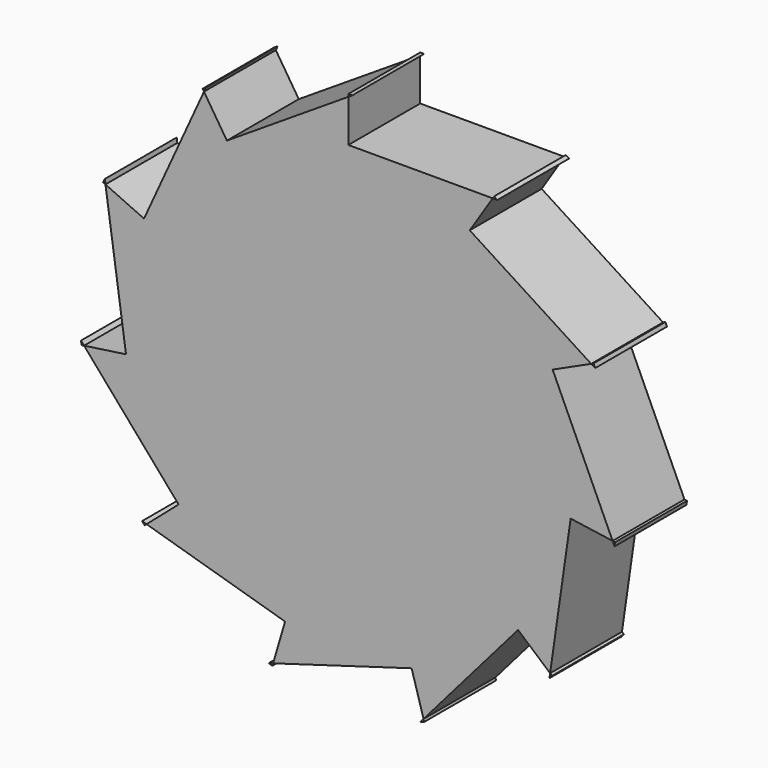
from build123d import *

# Parameters (mm, degrees)
F1_DEPTH = 10


with BuildPart() as f1:
    # F0 (on Front) → F1 (new body)
    with BuildSketch(Plane.XZ):
        with BuildLine():
            Line((16.066524, 25), (16.583124, 25))
            ThreePointArc((16.583124, 25), (16.401605, 25.119462), (16.219225, 25.237606))
            Line((16.219225, 25.237606), (16.066524, 25))
        make_face()
        with BuildLine():
            Line((27.28896, 12.46245), (27.032041, 12.345119))
            Line((27.032041, 12.345119), (27.466632, 12.065825))
            ThreePointArc((27.466632, 12.065825), (27.378514, 12.264459), (27.28896, 12.46245))
        make_face()
        with BuildLine():
            Line((29.694643, -4.269445), (29.415075, -4.229249))
            Line((29.415075, -4.229249), (29.629679, -4.699165))
            ThreePointArc((29.629679, -4.699165), (29.662939, -4.484423), (29.694643, -4.269445))
        make_face()
        with BuildLine():
            Line((22.672487, -19.645822), (22.459031, -19.460861))
            Line((22.459031, -19.460861), (22.385511, -19.972203))
            ThreePointArc((22.385511, -19.972203), (22.52959, -19.809532), (22.672487, -19.645822))
        make_face()
        with BuildLine():
            Line((8.451977, -28.784789), (8.372403, -28.513787))
            Line((8.372403, -28.513787), (8.034103, -28.904207))
            ThreePointArc((8.034103, -28.904207), (8.243256, -28.845255), (8.451977, -28.784789))
        make_face()
        with BuildLine():
            Line((-8.451977, -28.784789), (-8.372403, -28.513787))
            Line((-8.372403, -28.513787), (-8.868077, -28.65933))
            ThreePointArc((-8.868077, -28.65933), (-8.660254, -28.722813), (-8.451977, -28.784789))
        make_face()
        with BuildLine():
            Line((-22.672487, -19.645822), (-22.459031, -19.460861))
            Line((-22.459031, -19.460861), (-22.954705, -19.315318))
            ThreePointArc((-22.954705, -19.315318), (-22.814195, -19.481081), (-22.672487, -19.645822))
        make_face()
        with BuildLine():
            Line((-29.694643, -4.269445), (-29.415075, -4.229249))
            Line((-29.415075, -4.229249), (-29.753376, -3.838829))
            ThreePointArc((-29.753376, -3.838829), (-29.724789, -4.054244), (-29.694643, -4.269445))
        make_face()
        with BuildLine():
            Line((-27.28896, 12.46245), (-27.032041, 12.345119))
            Line((-27.032041, 12.345119), (-27.105561, 12.856461))
            ThreePointArc((-27.105561, 12.856461), (-27.197974, 12.659788), (-27.28896, 12.46245))
        make_face()
        with BuildLine():
            Line((-16.219225, 25.237606), (-16.066524, 25))
            Line((-16.066524, 25), (-15.851921, 25.469915))
            ThreePointArc((-15.851921, 25.469915), (-16.035994, 25.354426), (-16.219225, 25.237606))
        make_face()
        with BuildLine():
            Line((0, 30), (0, 29.717557))
            Line((0, 29.717557), (0.434591, 29.996852))
            ThreePointArc((0.434591, 29.996852), (0.217301, 29.999213), (0, 30))
        make_face()
        Polygon((13.51602, 21.031338), (16.066524, 25), (0, 25), (0, 29.717557), (-13.51602, 21.031338), (-16.066524, 25), (-22.7408, 10.385375), (-27.032041, 12.345119), (-24.745536, -3.557871), (-29.415075, -4.229249), (-18.893739, -16.371518), (-22.459031, -19.460861), (-7.043314, -23.987324), (-8.372403, -28.513787), (7.043314, -23.987324), (8.372403, -28.513787), (18.893739, -16.371518), (22.459031, -19.460861), (24.745536, -3.557871), (29.415075, -4.229249), (22.7408, 10.385375), (27.032041, 12.345119), align=None)
    extrude(amount=F1_DEPTH)


solid = f1.part
